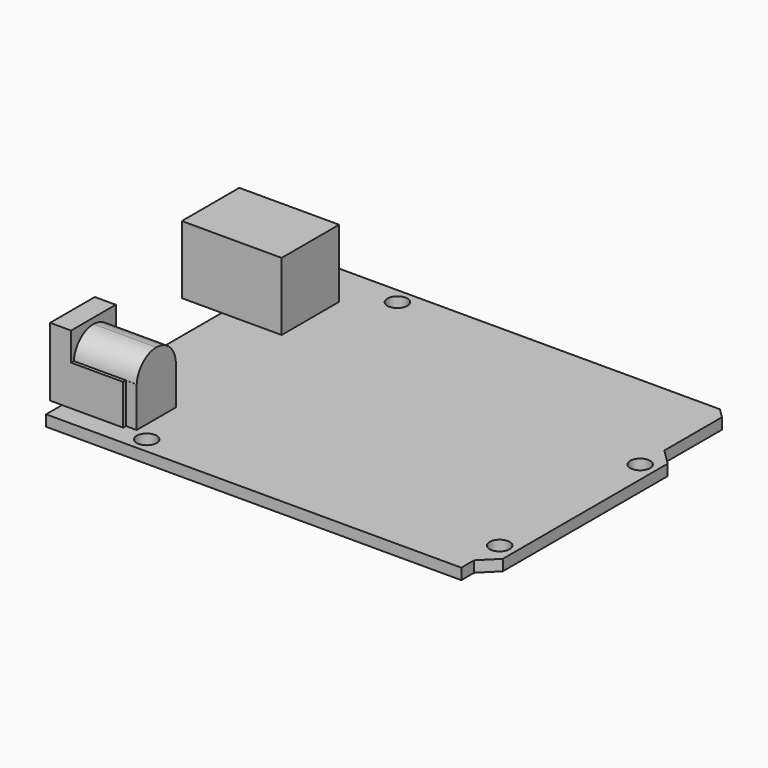
from build123d import *

# Parameters (mm, degrees)
F0_R     = 1.5875
F0_W     = 11.43
F0_H     = 8.89
F0_W_2   = 9.525
F0_H_2   = 11.43
F1_DEPTH = 1.75
F0_W_3   = 6.35
F2_DEPTH = 10.8
F0_W_4   = 1.905
F3_DEPTH = 10.9
F5_DEPTH = 1.7
F6_DEPTH = 10


with BuildPart() as f1:
    # F0 (on Top) → F1 (new body)
    with BuildSketch(Plane.XY):
        Polygon((0, 3.175), (0, 0), (66.04, 0), (66.04, 2.54), (68.58, 5.08), (68.58, 37.846), (66.04, 40.386), (66.04, 51.816), (64.516, 53.34), (0, 53.34), (0, 46.355), (9.525, 46.355), (9.525, 34.925), (0, 34.925), (0, 12.065), (11.43, 12.065), (11.43, 3.175), align=None)
        with Locations((13.97, 2.54)):
            Circle(F0_R, mode=Mode.SUBTRACT)
        with Locations((66.04, 7.62)):
            Circle(F0_R, mode=Mode.SUBTRACT)
        with Locations((15.24, 50.8)):
            Circle(F0_R, mode=Mode.SUBTRACT)
        with Locations((66.04, 35.56)):
            Circle(F0_R, mode=Mode.SUBTRACT)
        with Locations((5.715, 7.62)):
            Rectangle(F0_W, F0_H)
        with Locations((4.7625, 40.64)):
            Rectangle(F0_W_2, F0_H_2)
    extrude(amount=-F1_DEPTH)

    # F0 (on Top) → F2 (join)
    with BuildSketch(Plane.XY):
        with Locations((-3.175, 40.64)):
            Rectangle(F0_W_3, F0_H_2)
        with Locations((4.7625, 40.64)):
            Rectangle(F0_W_2, F0_H_2)
    extrude(amount=F2_DEPTH)

    # F0 (on Top) → F3 (join)
    with BuildSketch(Plane.XY):
        with Locations((5.715, 7.62)):
            Rectangle(F0_W, F0_H)
        with Locations((-0.9525, 7.62)):
            Rectangle(F0_W_4, F0_H)
    extrude(amount=F3_DEPTH)

    # F4 (on face) → F5 (cut)
    with BuildSketch(Plane.YZ.offset(11.43)):
        Polygon((11.52, 6.1), (11.52, 0), (12.065, 0), (12.065, 6.4), (11.52, 6.4), align=None)
        Polygon((3.175, 10.9), (3.175, 6.4), (3.72, 6.4), (3.72, 10), (7.62, 10), (11.52, 10), (11.52, 6.4), (12.065, 6.4), (12.065, 10.9), align=None)
        with BuildLine():
            Line((11.508444, 6.4), (11.52, 6.4))
            Line((11.52, 6.4), (11.52, 10))
            Line((11.52, 10), (7.62, 10))
            ThreePointArc((7.62, 10), (10.269528, 8.961818), (11.508444, 6.4))
        make_face()
        with BuildLine():
            Line((3.72, 10), (3.72, 6.4))
            Line((3.72, 6.4), (3.731556, 6.4))
            ThreePointArc((3.731556, 6.4), (4.970472, 8.961818), (7.62, 10))
            Line((7.62, 10), (3.72, 10))
        make_face()
        Polygon((3.175, 6.4), (3.175, 0), (3.72, 0), (3.72, 6.1), (3.72, 6.4), align=None)
    extrude(amount=-F5_DEPTH, mode=Mode.SUBTRACT)

    # F4 (on face) → F6 (cut)
    with BuildSketch(Plane.YZ.offset(11.43)):
        with BuildLine():
            Line((3.72, 10), (3.72, 6.4))
            Line((3.72, 6.4), (3.731556, 6.4))
            ThreePointArc((3.731556, 6.4), (4.970472, 8.961818), (7.62, 10))
            Line((7.62, 10), (3.72, 10))
        make_face()
        with BuildLine():
            Line((11.508444, 6.4), (11.52, 6.4))
            Line((11.52, 6.4), (11.52, 10))
            Line((11.52, 10), (7.62, 10))
            ThreePointArc((7.62, 10), (10.269528, 8.961818), (11.508444, 6.4))
        make_face()
        Polygon((3.175, 10.9), (3.175, 6.4), (3.72, 6.4), (3.72, 10), (7.62, 10), (11.52, 10), (11.52, 6.4), (12.065, 6.4), (12.065, 10.9), align=None)
    extrude(amount=-F6_DEPTH, mode=Mode.SUBTRACT)


solid = f1.part
